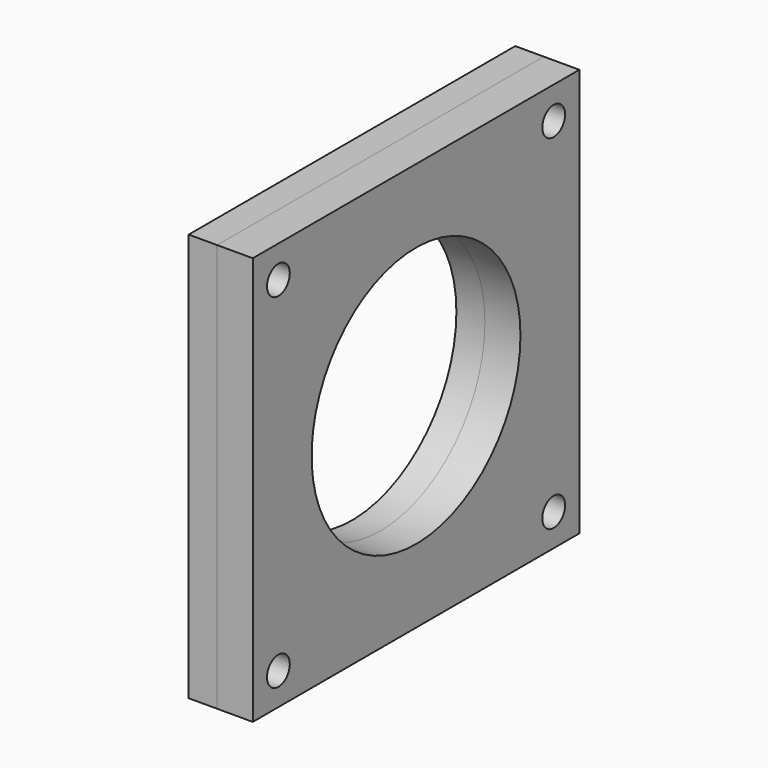
from build123d import *

# Parameters (mm, degrees)
F0_W          = 172
F0_H          = 172
F1_DEPTH      = 15
F2_DEPTH      = 12
F3_R          = 6
F4_DEPTH      = 25
F4_DEPTH_BACK = 25
F6_R          = 55
F7_DEPTH      = 25
F7_DEPTH_BACK = 25


with BuildPart() as f1:
    # F0 (on Right) → F1 (new body)
    with BuildSketch(Plane.YZ):
        Rectangle(F0_W, F0_H)
    extrude(amount=F1_DEPTH)


with BuildPart() as f2:
    # F0 (on Right) → F2 (new body)
    with BuildSketch(Plane.YZ):
        Rectangle(F0_W, F0_H)
    extrude(amount=-F2_DEPTH)


with BuildPart() as f4:
    # F3 (on Right) → F4 (new body, two sides)
    with BuildSketch(Plane.YZ) as f4_sk:
        with Locations((-72.5, 72.5)):
            Circle(F3_R)
        with Locations((-72.5, -72.5)):
            Circle(F3_R)
        with Locations((72.5, 72.5)):
            Circle(F3_R)
        with Locations((72.5, -72.5)):
            Circle(F3_R)
    extrude(amount=F4_DEPTH)
    extrude(f4_sk.sketch, amount=-F4_DEPTH_BACK)


with BuildPart() as f1_1:
    add(f1.part)

    # F5: cut F4
    add(f4.part, mode=Mode.SUBTRACT)


with BuildPart() as f2_1:
    add(f2.part)

    # F5: cut F4
    add(f4.part, mode=Mode.SUBTRACT)


with BuildPart() as f7:
    # F6 (on Right) → F7 (new body, two sides)
    with BuildSketch(Plane.YZ) as f7_sk:
        Circle(F6_R)
    extrude(amount=F7_DEPTH)
    extrude(f7_sk.sketch, amount=-F7_DEPTH_BACK)


with BuildPart() as f1_2:
    add(f1_1.part)

    # F8: cut F7
    add(f7.part, mode=Mode.SUBTRACT)


with BuildPart() as f2_2:
    add(f2_1.part)

    # F8: cut F7
    add(f7.part, mode=Mode.SUBTRACT)


solid = Compound([f1_2.part, f2_2.part])
